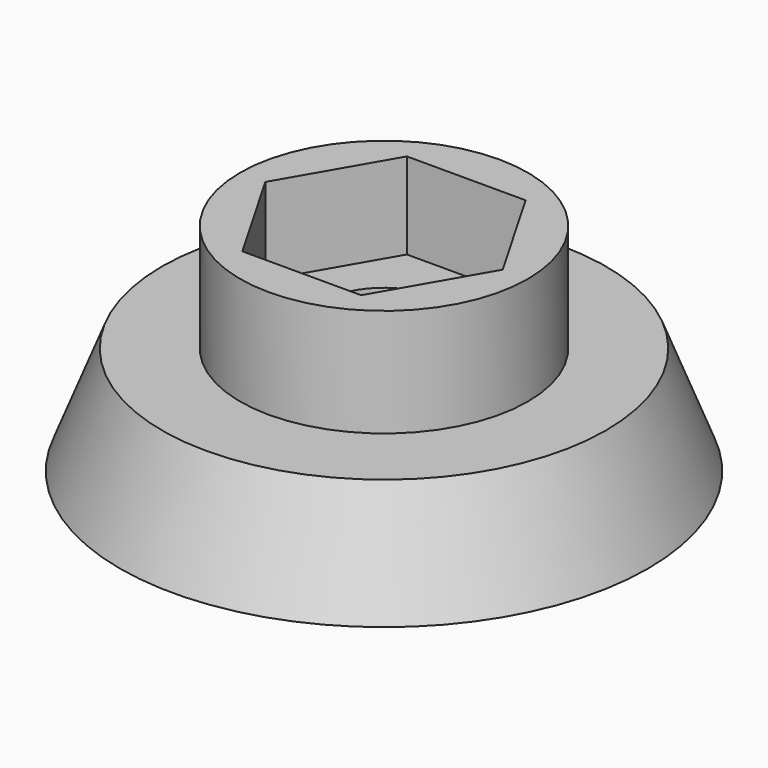
from build123d import *

# Parameters (mm, degrees)
CYLINDER396_R     = 1.7
CYLINDER396_DEPTH = 10
PRISM028_DEPTH    = 2.4
CYLINDER402_R     = 8
CYLINDER402_DEPTH = 3
CYLINDER400_R     = 4
CYLINDER400_DEPTH = 3


with BuildPart() as cone006:
    # Cone005 → Cone005 (revolve)
    with BuildSketch(Plane(origin=(0, 0, 85), x_dir=(1, 0, 0), z_dir=(0, -1, 0))):
        Polygon((0, 0), (21, 0), (5, 41), (0, 41), align=None)
    revolve(axis=Axis((0, 0, 85), (0, 0, 1)))


with BuildPart() as cylinder396:
    # Cylinder396 → Cylinder396 (new body)
    with BuildSketch(Plane.XY.offset(120)):
        Circle(CYLINDER396_R)
    extrude(amount=CYLINDER396_DEPTH)


with BuildPart() as fusion075:
    # Prism028 → Prism028 (new body)
    with BuildSketch(Plane.XY.offset(123.6)):
        Polygon((3.3, 0), (1.65, 2.857884), (-1.65, 2.857884), (-3.3, 0), (-1.65, -2.857884), (1.65, -2.857884), align=None)
    extrude(amount=PRISM028_DEPTH)

    # Fusion076: union Cylinder396
    add(cylinder396.part)


with BuildPart() as cylinder402:
    # Cylinder402 → Cylinder402 (new body)
    with BuildSketch(Plane.XY.offset(120)):
        Circle(CYLINDER402_R)
    extrude(amount=CYLINDER402_DEPTH)


with BuildPart() as support_antenna:
    # Cylinder400 → Cylinder400 (new body)
    with BuildSketch(Plane.XY.offset(123)):
        Circle(CYLINDER400_R)
    extrude(amount=CYLINDER400_DEPTH)

    # Fusion078: union Cylinder402
    add(cylinder402.part)

    # Cut210: cut Fusion075
    add(fusion075.part, mode=Mode.SUBTRACT)

    # Common005: intersect Cone006
    add(cone006.part, mode=Mode.INTERSECT)


solid = support_antenna.part
